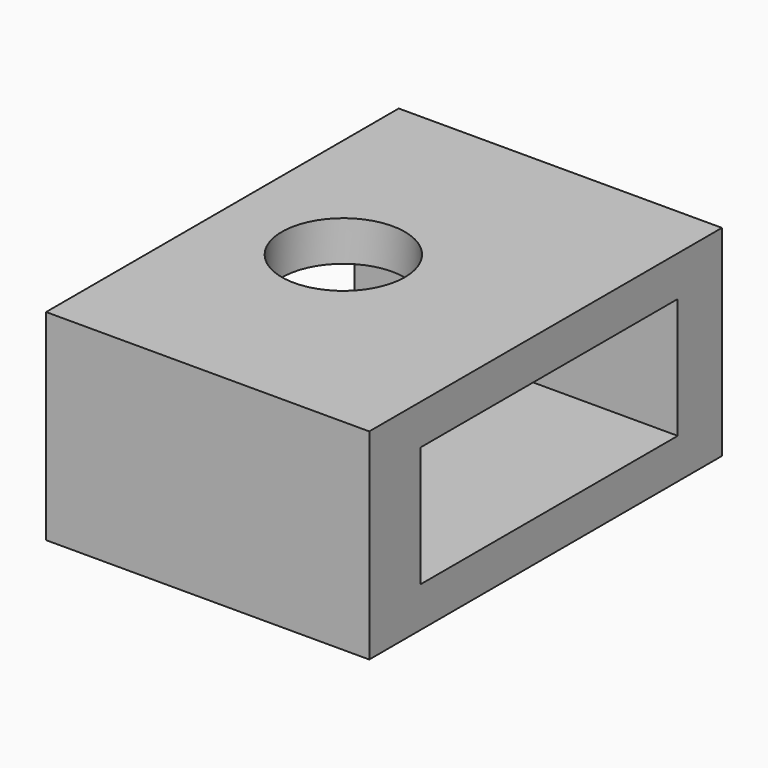
from build123d import *

# Parameters (mm, degrees)
BOX003_W     = 9.5
BOX003_H     = 8
BOX003_DEPTH = 3
SKETCH009_W  = 8.045495
SKETCH009_H  = 10.974572
SKETCH009_R  = 1.530969
PAD009_DEPTH = 5


with BuildPart() as body049:
    # Box003 → Box003 (new body)
    with BuildSketch(Plane.XY):
        with Locations((4.75, 4)):
            Rectangle(BOX003_W, BOX003_H)
    extrude(amount=BOX003_DEPTH)


with BuildPart() as body049_1:
    # Body049 placement: moved
    add(body049.part.moved(Location((-4, -3.9, 1))))


with BuildPart() as cut007:
    # Sketch009 → Pad009 (new body)
    with BuildSketch(Plane.XY):
        with Locations((1.022447, -0.012719)):
            Rectangle(SKETCH009_W, SKETCH009_H)
        Circle(SKETCH009_R, mode=Mode.SUBTRACT)
    extrude(amount=PAD009_DEPTH)

    # Cut007: cut Body049
    add(body049_1.part, mode=Mode.SUBTRACT)


with BuildPart() as cut007_1:
    # Cut007 placement: moved
    add(cut007.part.moved(Location((0, 0.025, 0))))


solid = cut007_1.part
